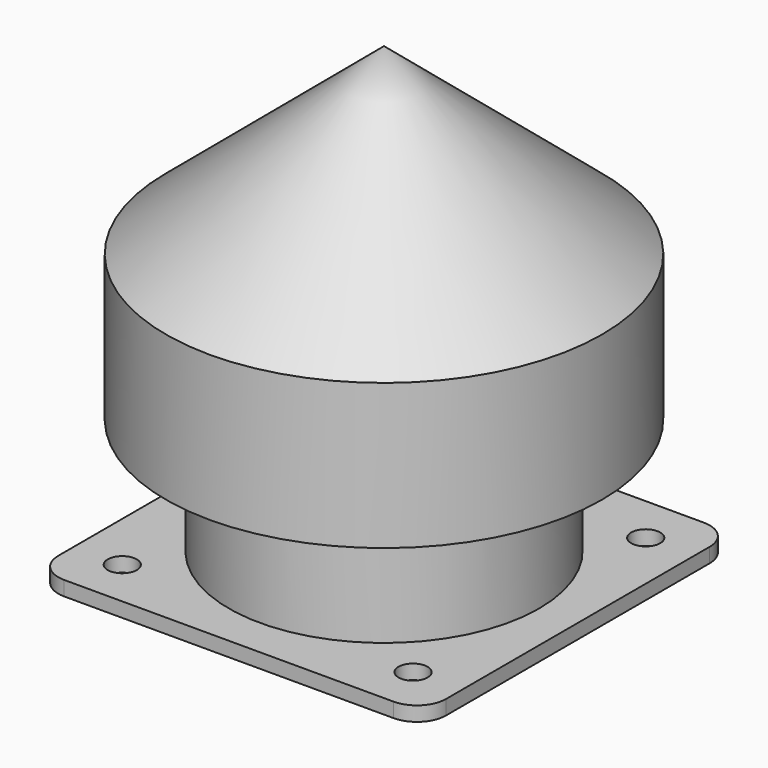
from build123d import *

# Parameters (mm, degrees)
SKETCH004_R           = 32
SKETCH004_R_2         = 30
PAD002_DEPTH          = 40
SKETCH005_R           = 30
SKETCH005_R_2         = 28
PAD003_DEPTH          = 30
CHAMFER_SIZE          = 1.9
CHAMFER001_SIZE       = 1.9
REVOLUTION_ANGLE      = 10
POLARPATTERN_COUNT    = 8
SKETCH007_W           = 15
SKETCH007_H           = 5
SKETCH007_W_2         = 13
REVOLUTION001_ANGLE   = 10
POLARPATTERN001_COUNT = 6
SKETCH009_R           = 45
SKETCH009_R_2         = 43
PAD004_DEPTH          = 30
SKETCH010_W           = 80
SKETCH010_H           = 80
SKETCH010_R           = 32
PAD005_DEPTH          = 3
SKETCH011_R           = 3
POCKET002_DEPTH       = 3
FILLET001_R           = 6
SKETCH021_R           = 30.5
POCKET004_DEPTH       = 27


with BuildPart() as part:
    # Sketch004 → Pad002 (new body)
    with BuildSketch(Plane.XY):
        Circle(SKETCH004_R)
        Circle(SKETCH004_R_2, mode=Mode.SUBTRACT)
    extrude(amount=PAD002_DEPTH)

    # Sketch005 (on Face4 of Pad002) → Pad003 (join)
    with BuildSketch(Plane.XY.offset(27)):
        Circle(SKETCH005_R)
        Circle(SKETCH005_R_2, mode=Mode.SUBTRACT)
    extrude(amount=PAD003_DEPTH)

    # Chamfer
    chamfer_edges = [part.edges().sort_by_distance(p)[0] for p in [
        (-32, 0, 40),
    ]]
    chamfer(chamfer_edges, length=CHAMFER_SIZE)

    # Chamfer001
    chamfer001_edges = [part.edges().sort_by_distance(p)[0] for p in [
        (-28, 0, 27),
    ]]
    chamfer(chamfer001_edges, length=CHAMFER001_SIZE)

    # Sketch006 → Revolution (revolve)
    with BuildSketch(Plane.YZ):
        Polygon((-28, 40), (-28, 48.660254), (-23, 48.660254), align=None)
    revolution = revolve(axis=Axis((0, 0, 0), (0, 0, 1)), revolution_arc=REVOLUTION_ANGLE)

    # PolarPattern: Revolution ×8 about axis
    polarpattern_axis = Axis((0, 0, 0), (0, 0, 1))
    for i in range(1, POLARPATTERN_COUNT):
        add(revolution.rotate(polarpattern_axis, i * 360 / POLARPATTERN_COUNT))

    # Sketch007 → Revolution001 (revolve)
    with BuildSketch(Plane.YZ):
        with Locations((-37.5, 54.5)):
            Rectangle(SKETCH007_W, SKETCH007_H)
        with Locations((-38.5, 29.5)):
            Rectangle(SKETCH007_W_2, SKETCH007_H)
    revolution001 = revolve(axis=Axis((0, 0, 0), (0, 0, 1)), revolution_arc=REVOLUTION001_ANGLE)

    # PolarPattern001: Revolution001 ×6 about axis
    polarpattern001_axis = Axis((0, 0, 0), (0, 0, 1))
    for i in range(1, POLARPATTERN001_COUNT):
        add(revolution001.rotate(polarpattern001_axis, i * 360 / POLARPATTERN001_COUNT))

    # Sketch008 → Revolution002 (revolve)
    with BuildSketch(Plane.YZ):
        Polygon((-45, 57), (0, 94.759483), (0, 93.081284), (-43, 57), align=None)
    revolve(axis=Axis((0, 0, 0), (0, 0, 1)))

    # Sketch009 (on Face100 of Revolution002) → Pad004 (join)
    with BuildSketch(Plane(origin=(0, 0, 57), x_dir=(1, 0, 0), z_dir=(0, 0, -1))):
        Circle(SKETCH009_R)
        Circle(SKETCH009_R_2, mode=Mode.SUBTRACT)
    extrude(amount=PAD004_DEPTH)

    # Sketch010 (on Face5 of Pad004) → Pad005 (join)
    with BuildSketch(Plane(origin=(0, 0, 0), x_dir=(1, 0, 0), z_dir=(0, 0, -1))):
        Rectangle(SKETCH010_W, SKETCH010_H)
        Circle(SKETCH010_R, mode=Mode.SUBTRACT)
    extrude(amount=-PAD005_DEPTH)

    # Sketch011 (on Face39 of Pad005) → Pocket002 (cut)
    with BuildSketch(Plane(origin=(0, 0, 0), x_dir=(1, 0, 0), z_dir=(0, 0, -1))):
        with Locations((-30, 30)):
            Circle(SKETCH011_R)
        with Locations((30, 30)):
            Circle(SKETCH011_R)
        with Locations((-30, -30)):
            Circle(SKETCH011_R)
        with Locations((30, -30)):
            Circle(SKETCH011_R)
    extrude(amount=-POCKET002_DEPTH, mode=Mode.SUBTRACT)

    # Fillet001
    fillet001_edges = [part.edges().sort_by_distance(p)[0] for p in [
        (40, 40, 1.5),
        (-40, 40, 1.5),
        (-40, -40, 1.5),
        (40, -40, 1.5),
    ]]
    fillet(fillet001_edges, radius=FILLET001_R)

    # Sketch021 (on Face1 of Fillet001) → Pocket004 (cut)
    with BuildSketch(Plane(origin=(0, 0, 0), x_dir=(1, 0, 0), z_dir=(0, 0, -1))):
        Circle(SKETCH021_R)
    extrude(amount=-POCKET004_DEPTH, mode=Mode.SUBTRACT)


with BuildPart() as part_1:
    # Body001 placement: moved
    add(part.part.moved(Location((0, 0, 3))))


solid = part_1.part
